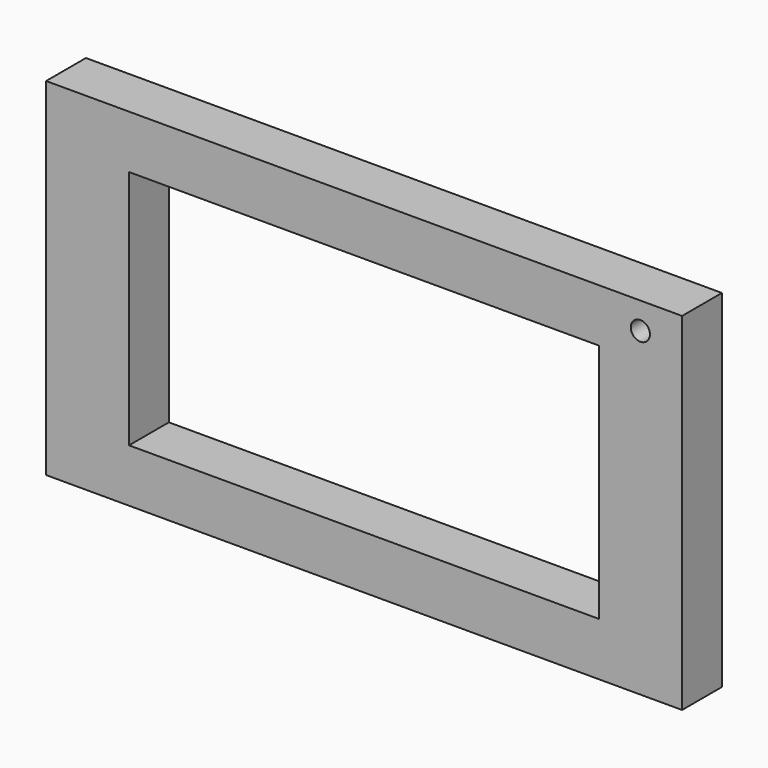
from build123d import *

# Parameters (mm, degrees)
SKETCH_W        = 33.2
SKETCH_H        = 18.11
PAD_DEPTH       = 2.6
SKETCH002_W     = 24.54
SKETCH002_H     = 12.56
POCKET_DEPTH    = 2.6
SKETCH003_R     = 0.5
POCKET001_DEPTH = 5


with BuildPart() as part:
    # Sketch → Pad (new body)
    with BuildSketch(Plane.XZ):
        with Locations((16.6, 9.055)):
            Rectangle(SKETCH_W, SKETCH_H)
    extrude(amount=PAD_DEPTH)

    # Sketch002 (on Face6 of Pad) → Pocket (cut)
    with BuildSketch(Plane.XZ.offset(2.6)):
        with Locations((16.6, 9.055)):
            Rectangle(SKETCH002_W, SKETCH002_H)
    extrude(amount=-POCKET_DEPTH, mode=Mode.SUBTRACT)

    # Sketch003 (on Face4 of Pocket) → Pocket001 (cut)
    with BuildSketch(Plane(origin=(0, 0, 0), x_dir=(1, 0, 0), z_dir=(0, 1, 0))):
        with Locations((31.0215, -16.715)):
            Circle(SKETCH003_R)
    extrude(amount=-POCKET001_DEPTH, mode=Mode.SUBTRACT)


solid = part.part
